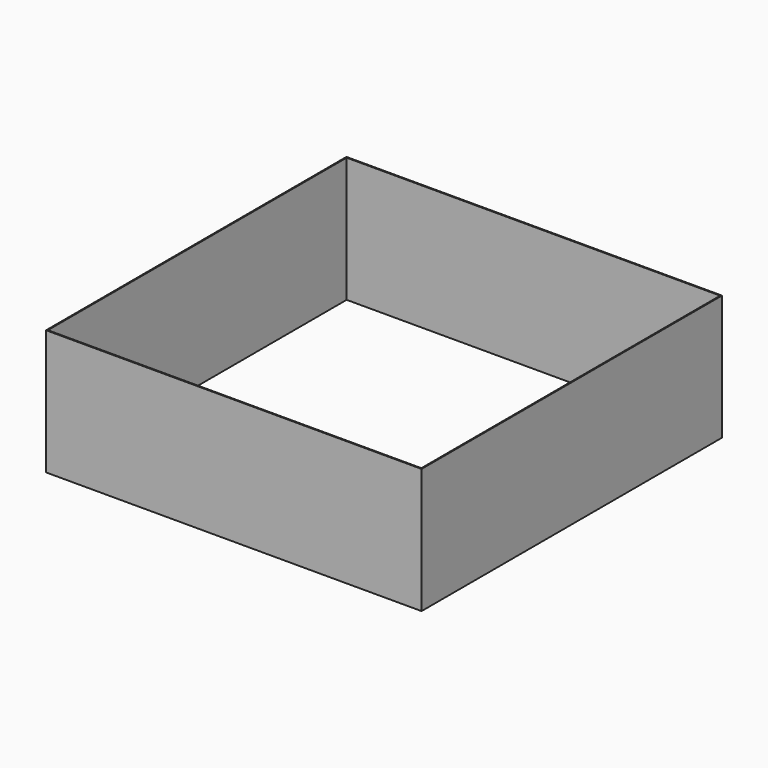
from build123d import *

# Parameters (mm, degrees)
F0_W     = 609.6
F0_H     = 609.6
F1_DEPTH = 203.2
F2_T     = -1.5875


with BuildPart() as f1:
    # F0 (on Top) → F1 (new body)
    with BuildSketch(Plane.XY):
        Rectangle(F0_W, F0_H)
    extrude(amount=F1_DEPTH)

    # F2
    f2_openings = [f1.faces().sort_by_distance(p)[0] for p in [
        (0, 0, 203.2),
        (0, 0, 0),
    ]]
    offset(amount=F2_T, openings=f2_openings)


solid = f1.part
